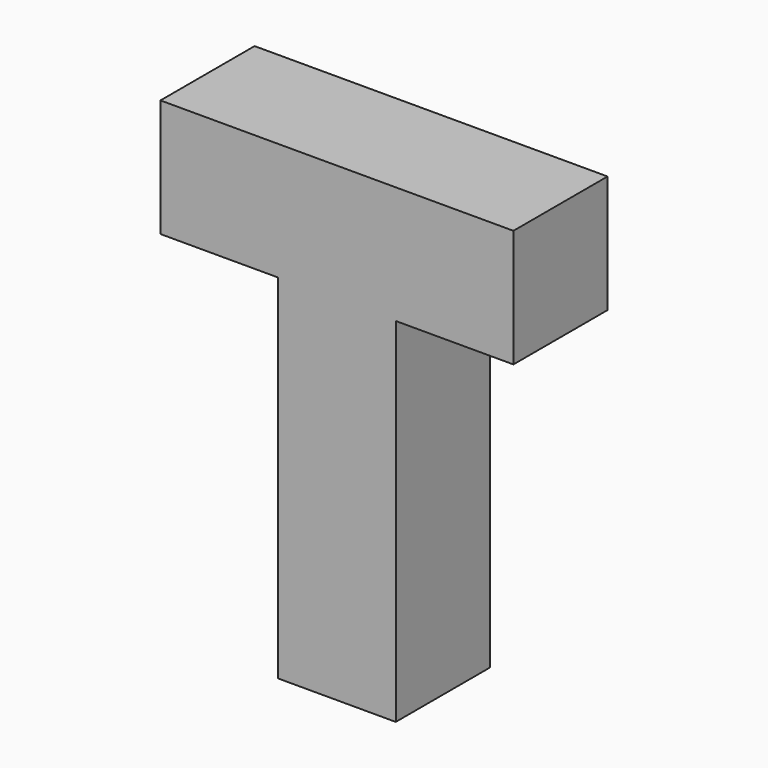
from build123d import *

# Parameters (mm, degrees)
BOX071_W     = 1
BOX071_H     = 1
BOX071_DEPTH = 3
BOX066_W     = 3
BOX066_H     = 1
BOX066_DEPTH = 1


with BuildPart() as box071:
    # Box071 → Box071 (new body)
    with BuildSketch(Plane(origin=(13, 0, 3), x_dir=(1, 0, 0), z_dir=(0, 0, 1))):
        with Locations((0.5, 0.5)):
            Rectangle(BOX071_W, BOX071_H)
    extrude(amount=BOX071_DEPTH)


with BuildPart() as fusion081:
    # Box066 → Box066 (new body)
    with BuildSketch(Plane(origin=(12, 0, 6), x_dir=(1, 0, 0), z_dir=(0, 0, 1))):
        with Locations((1.5, 0.5)):
            Rectangle(BOX066_W, BOX066_H)
    extrude(amount=BOX066_DEPTH)

    # Fusion081: union Box071
    add(box071.part)


solid = fusion081.part
